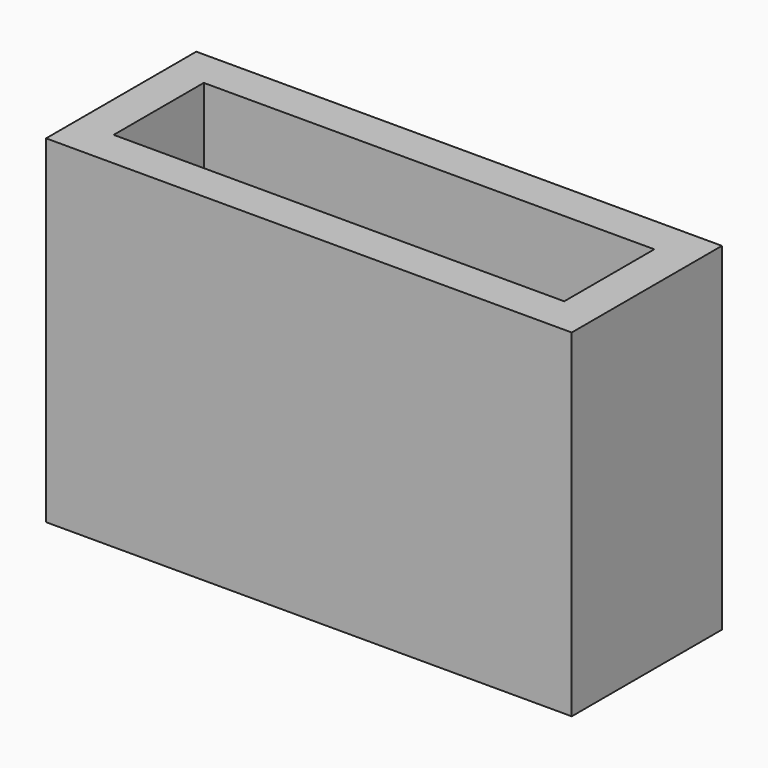
from build123d import *

# Parameters (mm, degrees)
SKETCH_W   = 7
SKETCH_H   = 2.5
SKETCH_W_2 = 6
SKETCH_H_2 = 1.5
PAD_DEPTH  = 4.5


with BuildPart() as part:
    # Sketch → Pad (new body)
    with BuildSketch(Plane.XY):
        Rectangle(SKETCH_W, SKETCH_H)
        Rectangle(SKETCH_W_2, SKETCH_H_2, mode=Mode.SUBTRACT)
    extrude(amount=PAD_DEPTH)


solid = part.part
